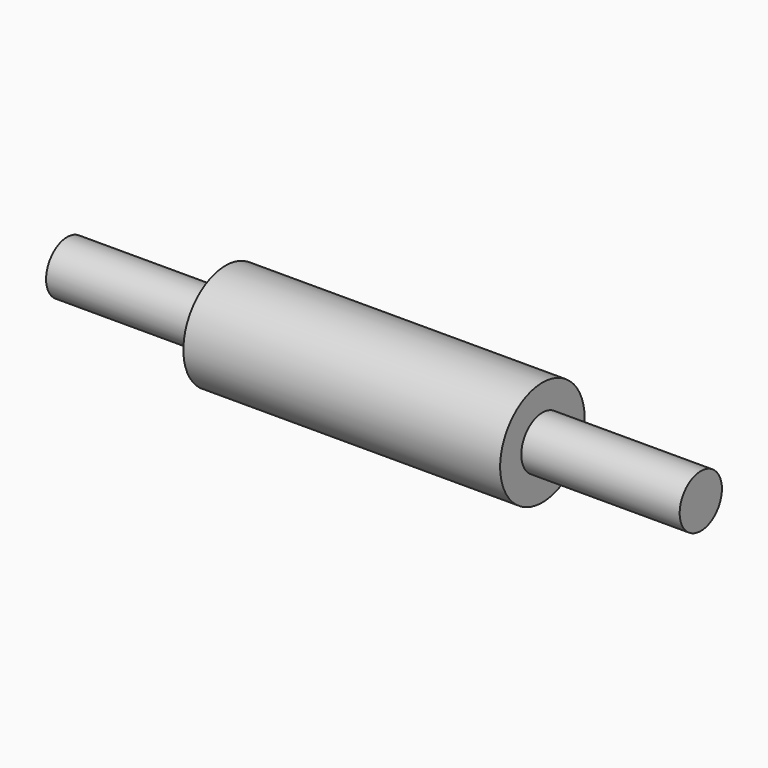
from build123d import *

# Parameters (mm, degrees)
F0_R     = 25.4
F1_DEPTH = 152.4
F2_R     = 12.7
F3_DEPTH = 76.2
F4_R     = 12.7
F5_DEPTH = 76.2


with BuildPart() as f1:
    # F0 (on Right) → F1 (new body)
    with BuildSketch(Plane.YZ):
        Circle(F0_R)
    extrude(amount=F1_DEPTH)

    # F2 (on face) → F3 (join)
    with BuildSketch(Plane(origin=(0, 0, 0), x_dir=(0, -1, 0), z_dir=(-1, 0, 0))):
        Circle(F2_R)
    extrude(amount=F3_DEPTH)

    # F4 (on face) → F5 (join)
    with BuildSketch(Plane.YZ.offset(152.4)):
        Circle(F4_R)
    extrude(amount=F5_DEPTH)


solid = f1.part
